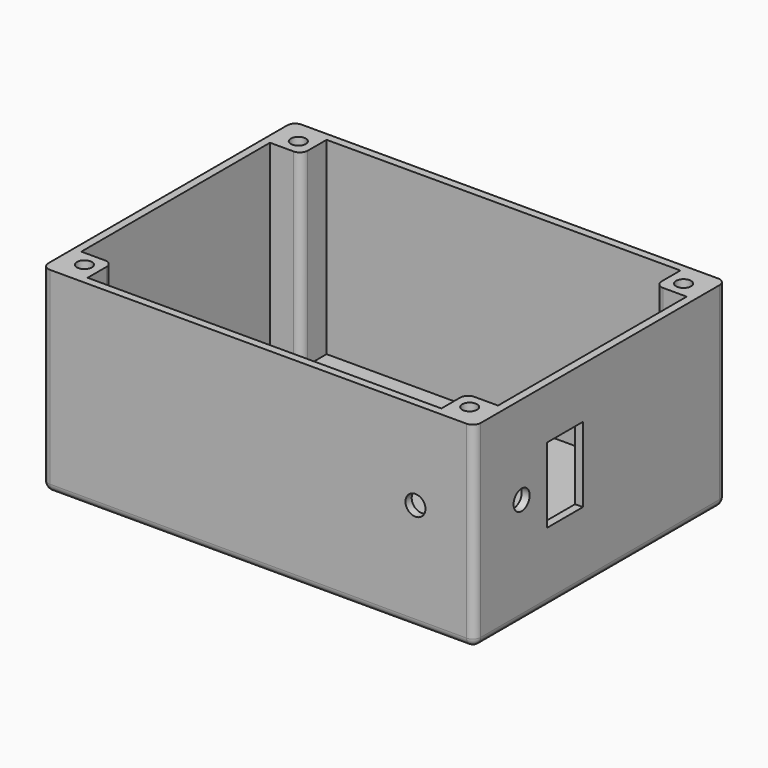
from build123d import *

# Parameters (mm, degrees)
SKETCH_W        = 110
SKETCH_H        = 80
PAD_DEPTH       = 50
SKETCH001_R     = 1.9
POCKET_DEPTH    = 48
FILLET_R        = 2
FILLET001_R     = 2
SKETCH002_R     = 2.55
SKETCH002_W     = 11.5
SKETCH002_H     = 19.1
POCKET001_DEPTH = 5
SKETCH003_R     = 2.55
POCKET002_DEPTH = 5


with BuildPart() as part:
    # Sketch → Pad (new body)
    with BuildSketch(Plane.XY):
        with Locations((55, 40)):
            Rectangle(SKETCH_W, SKETCH_H)
    extrude(amount=PAD_DEPTH)

    # Sketch001 (on Face6 of Pad) → Pocket (cut)
    with BuildSketch(Plane.XY.offset(50)):
        with Locations((6, 74)):
            Circle(SKETCH001_R)
        with Locations((104, 74)):
            Circle(SKETCH001_R)
        with Locations((104, 6)):
            Circle(SKETCH001_R)
        with Locations((6, 6)):
            Circle(SKETCH001_R)
        Polygon((2, 10), (10, 10), (10, 2), (100, 2), (100, 10), (108, 10), (108, 70), (100, 70), (100, 78), (10, 78), (10, 70), (2, 70), align=None)
    extrude(amount=-POCKET_DEPTH, mode=Mode.SUBTRACT)

    # Fillet
    fillet_edges = [part.edges().sort_by_distance(p)[0] for p in [
        (0, 80, 25),
        (0, 40, 0),
        (0, 0, 25),
        (55, 0, 0),
        (110, 0, 25),
        (110, 80, 25),
        (110, 40, 0),
        (55, 80, 0),
    ]]
    fillet(fillet_edges, radius=FILLET_R)

    # Fillet001
    fillet001_edges = [part.edges().sort_by_distance(p)[0] for p in [
        (100, 10, 26),
        (100, 70, 26),
        (10, 70, 26),
        (10, 10, 26),
    ]]
    fillet(fillet001_edges, radius=FILLET001_R)

    # Sketch002 (on Face22 of Fillet001) → Pocket001 (cut)
    with BuildSketch(Plane.YZ.offset(110)):
        with Locations((15, 27.5)):
            Circle(SKETCH002_R)
        with Locations((28.75, 27.5)):
            Rectangle(SKETCH002_W, SKETCH002_H)
    extrude(amount=-POCKET001_DEPTH, mode=Mode.SUBTRACT)

    # Sketch003 (on Face18 of Pocket001) → Pocket002 (cut)
    with BuildSketch(Plane.XZ):
        with Locations((95, 27.5)):
            Circle(SKETCH003_R)
    extrude(amount=-POCKET002_DEPTH, mode=Mode.SUBTRACT)


solid = part.part
